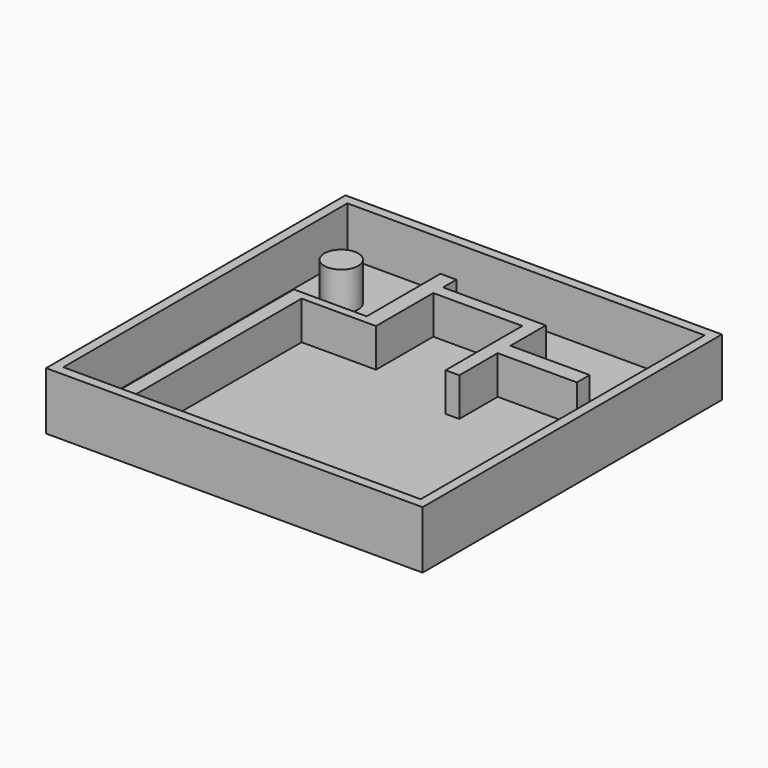
from build123d import *

# Parameters (mm, degrees)
F0_W     = 49.773663
F0_H     = 49.463548
F1_DEPTH = 7.62
F2_T     = -1.27
F4_DEPTH = 5.08
F3_W     = 10.467866
F3_H     = 2.113704
F3_R     = 2.24296
F5_DEPTH = 5.08
F6_R     = 1.943924
F7_DEPTH = 5.08


with BuildPart() as f1:
    # F0 (on Top) → F1 (new body)
    with BuildSketch(Plane.XY):
        with Locations((-24.886831, 24.731774)):
            Rectangle(F0_W, F0_H)
    extrude(amount=F1_DEPTH)

    # F2
    f2_openings = [f1.faces().sort_by_distance(p)[0] for p in [
        (-24.886832, 24.731774, 7.62),
    ]]
    offset(amount=F2_T, openings=f2_openings)

    # F3 (on face) → F4 (join)
    with BuildSketch(Plane.XY.offset(1.27)):
        Polygon((-42.308204, 31.621417), (-42.308204, 1.27), (-40.409051, 1.27), (-40.409051, 30.519297), (-40.409051, 31.621417), align=None)
    extrude(amount=F4_DEPTH)

    # F3 (on face) → F5 (join)
    with BuildSketch(Plane.XY.offset(1.27)):
        Polygon((-42.308204, 31.621417), (-42.308204, 1.27), (-40.409051, 1.27), (-40.409051, 30.519297), (-40.409051, 31.621417), align=None)
        Polygon((-40.409051, 31.621417), (-40.409051, 30.519297), (-30.573701, 30.519297), (-30.573701, 31.621417), (-32.687407, 31.621417), align=None)
        Polygon((-32.687407, 43.805435), (-32.687407, 31.621417), (-30.573701, 31.621417), (-30.573701, 39.980639), (-30.573701, 41.591078), (-30.573701, 43.805435), align=None)
        Polygon((-30.573701, 41.591078), (-30.573701, 39.980639), (-18.797351, 39.980639), (-16.985605, 39.980639), (-16.985605, 41.591078), align=None)
        Polygon((-16.985605, 39.980639), (-18.797351, 39.980639), (-18.797351, 27.298415), (-16.985605, 27.298415), (-16.985605, 33.639527), (-16.985605, 35.753231), align=None)
        with Locations((-11.751672, 34.696379)):
            Rectangle(F3_W, F3_H)
        with Locations((-42.652011, 39.879985)):
            Circle(F3_R)
    extrude(amount=F5_DEPTH)

    # F6 (on face) → F7 (cut)
    with BuildSketch(Plane.XY.offset(1.27)):
        with Locations((-45.369629, 6.563986)):
            Circle(F6_R)
    extrude(amount=-F7_DEPTH, mode=Mode.SUBTRACT)


solid = f1.part
